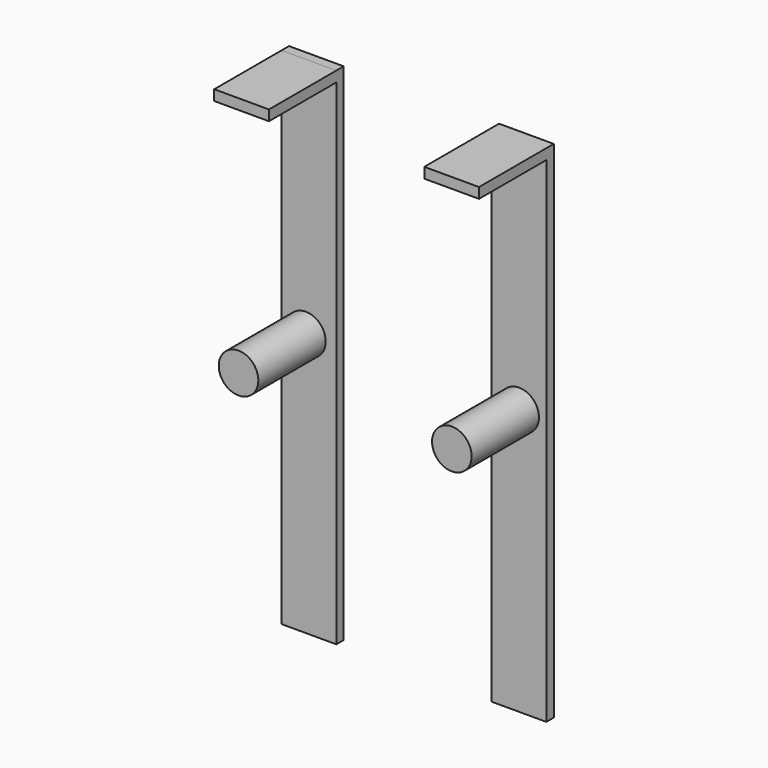
from build123d import *

# Parameters (mm, degrees)
F0_W     = 16.51
F0_H     = 152.4
F1_DEPTH = 2.794
F2_W     = 16.51
F2_H     = 3.141341
F3_DEPTH = 25.4
F4_W     = 16.51
F4_H     = 3.1496
F5_DEPTH = 25.4
F6_R     = 5.969
F7_DEPTH = 25.4
F8_R     = 5.969
F9_DEPTH = 25.4


with BuildPart() as f1:
    # F0 (on Front) → F1 (new body)
    with BuildSketch(Plane.XZ):
        with Locations((-55.121755, 11.934666)):
            Rectangle(F0_W, F0_H)
        with Locations((8.255, 11.934666)):
            Rectangle(F0_W, F0_H)
    extrude(amount=F1_DEPTH)

    # F2 (on face) → F3 (join)
    with BuildSketch(Plane.XZ.offset(2.794)):
        with Locations((-55.121755, 86.563996)):
            Rectangle(F2_W, F2_H)
    extrude(amount=F3_DEPTH)

    # F4 (on face) → F5 (join)
    with BuildSketch(Plane.XZ.offset(2.794)):
        with Locations((8.255, 86.559866)):
            Rectangle(F4_W, F4_H)
    extrude(amount=F5_DEPTH)

    # F6 (on face) → F7 (join)
    with BuildSketch(Plane.XZ.offset(2.794)):
        with Locations((-56.045193, 15.133158)):
            Circle(F6_R)
    extrude(amount=F7_DEPTH)

    # F8 (on face) → F9 (join)
    with BuildSketch(Plane.XZ.offset(2.794)):
        with Locations((8.306528, 15.896976)):
            Circle(F8_R)
    extrude(amount=F9_DEPTH)


solid = f1.part
